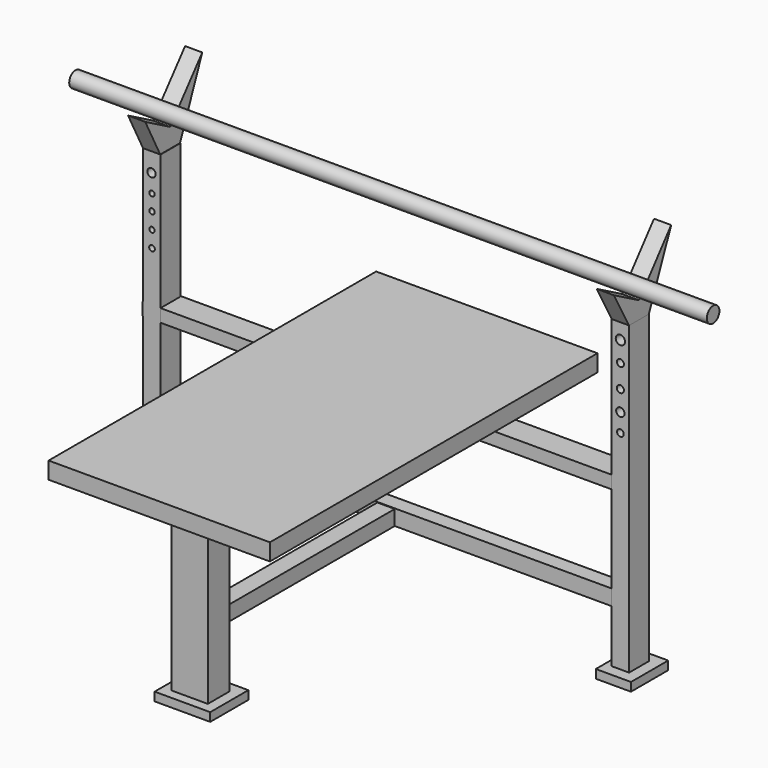
from build123d import *

# Parameters (mm, degrees)
F0_W      = 52.368403
F0_H      = 96.881537
F1_DEPTH  = 4
F2_W      = 114.755187
F2_H      = 6.086928
F3_DEPTH  = 3.048
F4_W      = 8.591679
F4_H      = 6.443758
F5_DEPTH  = 41.91
F6_W      = 114.093784
F6_H      = 3.680445
F7_DEPTH  = 3.556
F8_W      = 4.140499
F8_H      = 73.14884
F8_W_2    = 4.1405
F8_H_2    = 74.068949
F9_DEPTH  = 5.842
F10_W     = 4.10326
F10_H     = 52.87635
F11_DEPTH = 3.556
F13_DEPTH = 4.064
F15_DEPTH = 4.064
F16_R     = 0.980386
F16_R_2   = 0.639131
F16_R_3   = 0.639132
F16_R_4   = 0.62005
F16_R_5   = 0.666735
F17_DEPTH = 25.4
F18_R     = 1.096107
F18_R_2   = 0.834771
F18_R_3   = 0.992567
F18_R_4   = 0.790414
F19_DEPTH = 25.4
F20_W     = 13.156006
F20_H     = 11.276576
F20_W_2   = 9.397149
F20_H_2   = 10.202618
F20_W_3   = 8.323186
F20_H_3   = 11.008088
F21_DEPTH = 2.032
F22_R     = 1.85633
F23_DEPTH = 75.438


with BuildPart() as f1:
    # F0 (on Top) → F1 (new body)
    with BuildSketch(Plane.XY):
        with Locations((-0.654604, -18.110739)):
            Rectangle(F0_W, F0_H)
    extrude(amount=F1_DEPTH)

    # F2 (on face) → F3 (join)
    with BuildSketch(Plane(origin=(0, 0, 0), x_dir=(1, 0, 0), z_dir=(0, 0, -1))):
        with Locations((-0.426962, -3.043464)):
            Rectangle(F2_W, F2_H)
    extrude(amount=F3_DEPTH)

    # F4 (on face) → F5 (join)
    with BuildSketch(Plane(origin=(0, 0, 0), x_dir=(1, 0, 0), z_dir=(0, 0, -1))):
        with Locations((0.015967, 55.172136)):
            Rectangle(F4_W, F4_H)
    extrude(amount=F5_DEPTH)


with BuildPart() as f7:
    # F6 (on Front) → F7 (new body)
    with BuildSketch(Plane.XZ):
        with Locations((-0.920111, -25.533088)):
            Rectangle(F6_W, F6_H)
    extrude(amount=-F7_DEPTH)


with BuildPart() as f9:
    # F8 (on Front) → F9 (new body)
    with BuildSketch(Plane.XZ):
        with Locations((55.20667, -4.1405)):
            Rectangle(F8_W, F8_H)
        with Locations((-55.666724, -5.060609)):
            Rectangle(F8_W_2, F8_H_2)
    extrude(amount=-F9_DEPTH)

    # F12 (on face) → F13 (join)
    with BuildSketch(Plane.YZ.offset(57.276919)):
        Polygon((-4.523055, 40.580641), (0, 32.43392), (5.842, 32.43392), (12.449046, 48.295233), (2.921, 36.507281), align=None)
    extrude(amount=-F13_DEPTH)

    # F14 (on face) → F15 (join)
    with BuildSketch(Plane(origin=(-57.736974, 0, 0), x_dir=(0, -1, 0), z_dir=(-1, 0, 0))):
        Polygon((-12.443231, 48.175279), (-5.842, 31.973865), (0, 31.973865), (4.431231, 40.568657), (-2.913094, 36.546763), align=None)
    extrude(amount=-F15_DEPTH)

    # F16 (on face) → F17 (cut)
    with BuildSketch(Plane.XZ):
        with Locations((-55.730559, 27.490592)):
            Circle(F16_R)
        with Locations((-55.620946, 23.21578)):
            Circle(F16_R_2)
        with Locations((-55.620946, 19.48902)):
            Circle(F16_R_3)
        with Locations((-55.620946, 15.652651)):
            Circle(F16_R_4)
        with Locations((-55.620946, 11.816282)):
            Circle(F16_R_5)
    extrude(amount=-F17_DEPTH, mode=Mode.SUBTRACT)

    # F18 (on face) → F19 (cut)
    with BuildSketch(Plane.XZ):
        with Locations((55.211324, 28.746681)):
            Circle(F18_R)
        with Locations((55.211324, 23.941286)):
            Circle(F18_R_2)
        with Locations((55.211324, 18.51584)):
            Circle(F18_R_2)
        with Locations((55.211324, 13.710445)):
            Circle(F18_R_3)
        with Locations((55.211324, 9.37009)):
            Circle(F18_R_4)
    extrude(amount=-F19_DEPTH, mode=Mode.SUBTRACT)


with BuildPart() as f11:
    # F10 (on face) → F11 (new body)
    with BuildSketch(Plane(origin=(0, 0, -27.37331), x_dir=(1, 0, 0), z_dir=(0, 0, -1))):
        with Locations((-0.229647, 26.438175)):
            Rectangle(F10_W, F10_H)
    extrude(amount=-F11_DEPTH)


with BuildPart() as f21:
    # F20 (on face) → F21 (new body)
    with BuildSketch(Plane(origin=(0, 0, -41.91), x_dir=(1, 0, 0), z_dir=(0, 0, -1))):
        with Locations((0.145966, 55.065697)):
            Rectangle(F20_W, F20_H)
        with Locations((-55.69994, -2.92813)):
            Rectangle(F20_W_2, F20_H_2)
        with Locations((55.723384, -2.793885)):
            Rectangle(F20_W_3, F20_H_3)
    extrude(amount=-F21_DEPTH)


with BuildPart() as f23:
    # F22 (on Right) → F23 (new body, symmetric)
    with BuildSketch(Plane.YZ):
        with Locations((2.147918, 39.736513)):
            Circle(F22_R)
    extrude(amount=F23_DEPTH, both=True)


solid = Compound([f1.part, f7.part, f9.part, f11.part, f21.part, f23.part])
